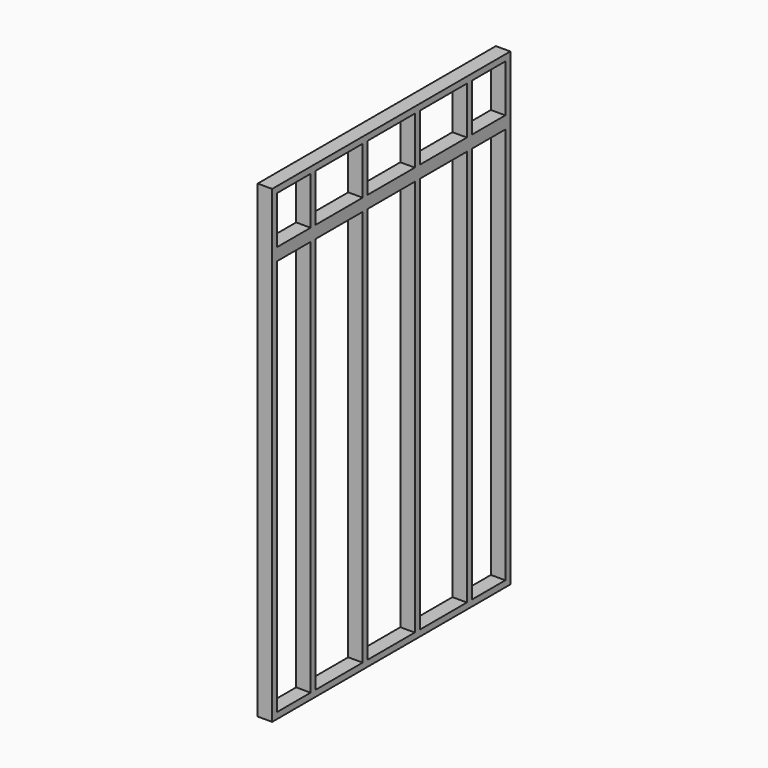
from build123d import *

# Parameters (mm, degrees)
F0_W     = 38.1
F0_H     = 38.1
F0_H_2   = 2438.4
F0_H_3   = 292.1
F1_DEPTH = 88.9


with BuildPart() as f1:
    # F0 (on Right) → F1 (new body)
    with BuildSketch(Plane.YZ):
        with Locations((19.05, 19.05)):
            Rectangle(F0_W, F0_H)
        Polygon((38.1, 38.1), (38.1, 0), (1790.7, 0), (1790.7, 38.1), (1533.525, 38.1), (1495.425, 38.1), (1133.475, 38.1), (1095.375, 38.1), (733.425, 38.1), (695.325, 38.1), (333.375, 38.1), (295.275, 38.1), align=None)
        with Locations((19.05, 1257.3)):
            Rectangle(F0_W, F0_H_2)
        with Locations((1809.75, 19.05)):
            Rectangle(F0_W, F0_H)
        Polygon((0, 2514.6), (0, 2476.5), (38.1, 2476.5), (295.275, 2476.5), (333.375, 2476.5), (695.325, 2476.5), (733.425, 2476.5), (1095.375, 2476.5), (1133.475, 2476.5), (1495.425, 2476.5), (1533.525, 2476.5), (1790.7, 2476.5), (1828.8, 2476.5), (1828.8, 2514.6), align=None)
        with Locations((1809.75, 1257.3)):
            Rectangle(F0_W, F0_H_2)
        Polygon((0, 2552.7), (0, 2514.6), (1828.8, 2514.6), (1828.8, 2552.7), (1790.7, 2552.7), (1533.525, 2552.7), (1495.425, 2552.7), (1133.475, 2552.7), (1095.375, 2552.7), (733.425, 2552.7), (695.325, 2552.7), (333.375, 2552.7), (295.275, 2552.7), (38.1, 2552.7), align=None)
        with Locations((19.05, 2698.75)):
            Rectangle(F0_W, F0_H_3)
        Polygon((0, 2882.9), (0, 2844.8), (38.1, 2844.8), (295.275, 2844.8), (333.375, 2844.8), (695.325, 2844.8), (733.425, 2844.8), (1095.375, 2844.8), (1133.475, 2844.8), (1495.425, 2844.8), (1533.525, 2844.8), (1790.7, 2844.8), (1828.8, 2844.8), (1828.8, 2882.9), align=None)
        with Locations((1809.75, 2698.75)):
            Rectangle(F0_W, F0_H_3)
        with Locations((314.325, 1257.3)):
            Rectangle(F0_W, F0_H_2)
        with Locations((714.375, 1257.3)):
            Rectangle(F0_W, F0_H_2)
        with Locations((1114.425, 1257.3)):
            Rectangle(F0_W, F0_H_2)
        with Locations((1514.475, 1257.3)):
            Rectangle(F0_W, F0_H_2)
        with Locations((1514.475, 2698.75)):
            Rectangle(F0_W, F0_H_3)
        with Locations((1114.425, 2698.75)):
            Rectangle(F0_W, F0_H_3)
        with Locations((714.375, 2698.75)):
            Rectangle(F0_W, F0_H_3)
        with Locations((314.325, 2698.75)):
            Rectangle(F0_W, F0_H_3)
    extrude(amount=F1_DEPTH)


solid = f1.part
